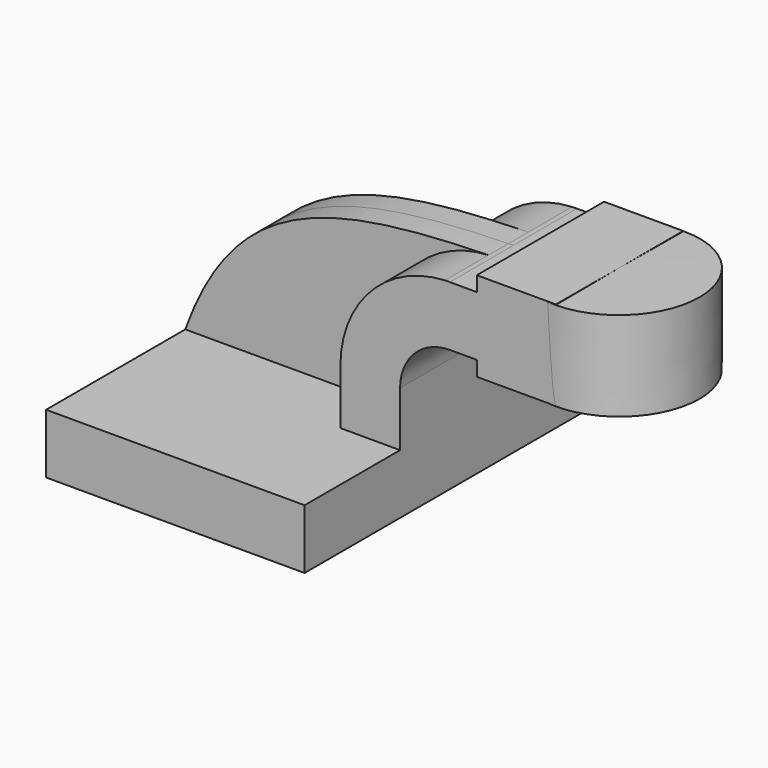
from build123d import *

# Parameters (mm, degrees)
F1_DEPTH = 63.5
F2_DEPTH = 25.4
F3_DEPTH = 7.9375
F4_DEPTH = 25.4


with BuildPart() as f1:
    # F0 (on Front) → F1 (new body, symmetric)
    with BuildSketch(Plane.XZ):
        Polygon((-41.275, -9.525), (41.275, -9.525), (41.275, 9.525), (22.225, 9.525), (-41.275, 9.525), align=None)
    extrude(amount=F1_DEPTH, both=True)

    # F0 (on Front) → F2 (join, symmetric)
    with BuildSketch(Plane.XZ):
        with BuildLine():
            Line((22.225, 9.525), (41.275, 9.525))
            Line((41.275, 9.525), (41.275, 27.0002))
            ThreePointArc((41.275, 27.0002), (45.9246798487, 38.2255201513), (57.15, 42.8752))
            Line((57.15, 42.8752), (65.7820404529, 42.8752))
            Line((65.7820404529, 42.8752), (65.7820404529, 61.9252))
            Line((65.7820404529, 61.9252), (57.15, 61.9252))
            add(Edge.make_bspline(
                [(55.550874855, 61.8885708959), (56.0816141812, 61.9013962884), (56.6146531302, 61.9135944066), (57.15, 61.9252)],
                knots=[110.3600423444, 110.3600423444, 110.3600423444, 110.3600423444, 111.5045361635, 111.5045361635, 111.5045361635, 111.5045361635], degree=3))
            ThreePointArc((55.550874855, 61.8885708959), (31.8952472721, 51.1239038959), (22.225, 27.0002))
            Line((22.225, 27.0002), (22.225, 9.525))
        make_face()
    extrude(amount=F2_DEPTH, both=True)

    # F0 (on Front) → F3 (join, symmetric)
    with BuildSketch(Plane.XZ):
        with BuildLine():
            add(Edge.make_bspline(
                [(-41.275, 9.525), (-25.4220175823, 53.5826509426), (4.3733031342, 60.6518574843), (55.550874855, 61.8885708959)],
                knots=[0, 0, 0, 0, 110.3600423444, 110.3600423444, 110.3600423444, 110.3600423444], degree=3))
            Line((-41.275, 9.525), (22.225, 9.525))
            Line((22.225, 9.525), (22.225, 27.0002))
            ThreePointArc((22.225, 27.0002), (31.8952472721, 51.1239038959), (55.550874855, 61.8885708959))
        make_face()
    extrude(amount=F3_DEPTH, both=True)

    # F0 (on Front) → F4 (join, symmetric)
    with BuildSketch(Plane.XZ):
        Polygon((65.7820404529, 61.9252), (65.7820404529, 42.8752), (65.7820404529, 38.1), (91.1820404529, 38.1), (91.0449102521, 66.675), (65.7820404529, 66.675), align=None)
    extrude(amount=F4_DEPTH, both=True)

    # F0 (on Front) → F5 (revolve)
    with BuildSketch(Plane.XZ):
        Polygon((91.0449102521, 66.675), (91.1820404529, 38.1), (116.5820404529, 38.1), (116.5820404529, 66.675), align=None)
    revolve(axis=Axis((91.1134753525, 0, 52.3875), (-0.0047989019, 0, 0.9999884852)))


solid = f1.part
